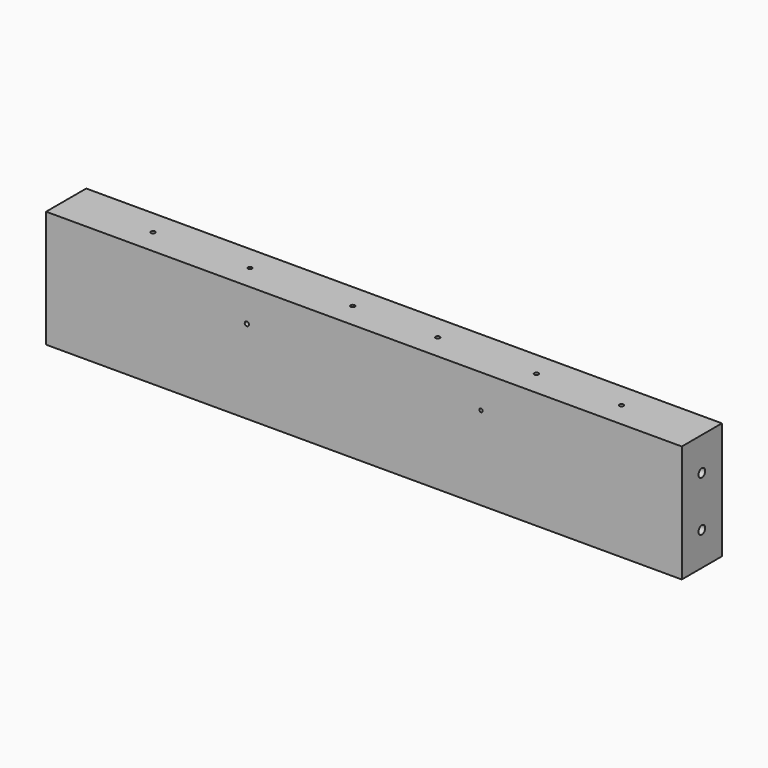
from build123d import *

# Parameters (mm, degrees)
F0_W     = 482.6
F0_H     = 88.9
F1_DEPTH = 38.1
F3_D     = 6.35
F3_DEPTH = 12.7
F3_TIP   = 1.9077324654
F5_D     = 6.35
F5_DEPTH = 12.7
F5_TIP   = 1.9077324654
F6_R     = 1.3011245906
F6_R_2   = 1.5875
F7_DEPTH = 38.101
F9_D     = 3.175


with BuildPart() as f1:
    # F0 (on Front) → F1 (new body)
    with BuildSketch(Plane.XZ):
        with Locations((95.348703318, -48.9931209013)):
            Rectangle(F0_W, F0_H)
    extrude(amount=F1_DEPTH)

    # F3
    with Locations(Plane.YZ.offset(336.648703318)):
        with Locations((-19.05, -29.9431209013), (-19.05, -68.0431209013)):
            Hole(F3_D / 2, depth=F3_DEPTH)
            with Locations((0, 0, -(F3_DEPTH + F3_TIP / 2))):  # 118° drill point
                Cone(0, F3_D / 2, F3_TIP, mode=Mode.SUBTRACT)

    # F5
    with Locations(Plane(origin=(-145.951296682, 0, 0), x_dir=(0, -1, 0), z_dir=(-1, 0, 0))):
        with Locations((19.05, -29.9431209013), (19.05, -68.0431209013)):
            Hole(F5_D / 2, depth=F5_DEPTH)
            with Locations((0, 0, -(F5_DEPTH + F5_TIP / 2))):  # 118° drill point
                Cone(0, F5_D / 2, F5_TIP, mode=Mode.SUBTRACT)

    # F6 (on face) → F7 (cut, through all)
    with BuildSketch(Plane(origin=(0, 0, 0), x_dir=(-1, 0, 0), z_dir=(0, 1, 0))):
        with Locations((-184.248703318, -29.9431209013)):
            Circle(F6_R)
        with Locations((-6.448703318, -29.9431209013)):
            Circle(F6_R_2)
    extrude(amount=-F7_DEPTH, mode=Mode.SUBTRACT)

    # F9 (through all)
    with Locations(Plane.XY.offset(-4.5431209013)):
        with Locations((275.6962180138, -19.05), (211.0514938831, -19.05), (136.1659169197, -19.05), (71.6916397214, -19.05), (-6.3390433788, -19.05), (-79.9852013588, -19.05)):
            Hole(F9_D / 2)


solid = f1.part
